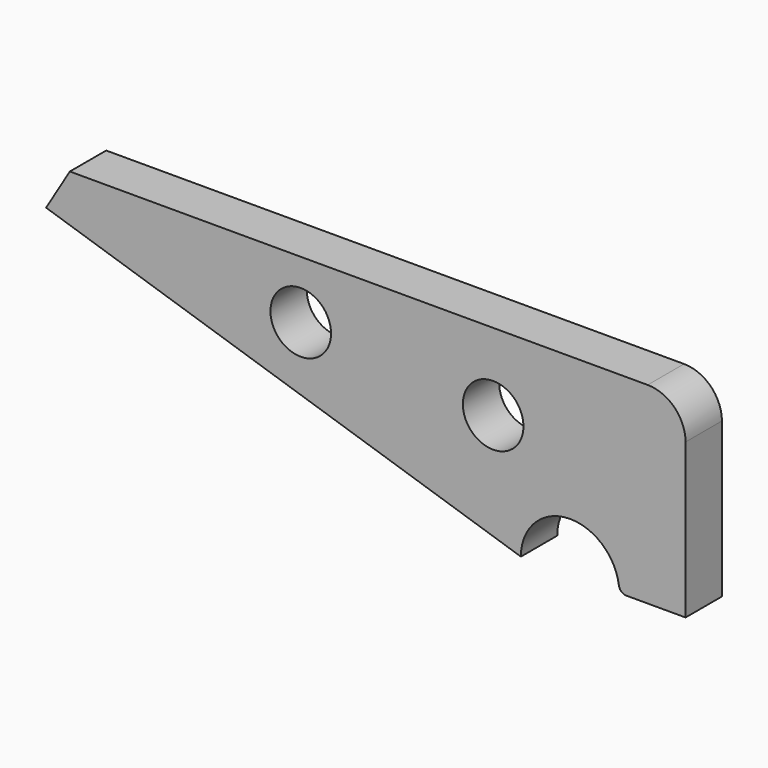
from build123d import *

# Parameters (mm, degrees)
F0_R     = 4
F1_DEPTH = 6
F2_R     = 5
F3_R     = 1


with BuildPart() as f1:
    # F0 (on Front) → F1 (new body)
    with BuildSketch(Plane.XZ):
        with BuildLine():
            Line((40.613971, 0), (-40.666029, 0))
            Line((-40.666029, 0), (-43.802427, -5.227331))
            Line((-43.802427, -5.227331), (18.873971, -25.4))
            ThreePointArc((18.873971, -25.4), (25.373971, -18.9), (31.873971, -25.4))
            Line((31.873971, -25.4), (35.371493, -25.4))
            Line((35.371493, -25.4), (40.613971, -25.4))
            Line((40.613971, -25.4), (40.613971, -10.16))
            Line((40.613971, -10.16), (40.613971, -7.62))
            Line((40.613971, -7.62), (40.613971, -6.35))
            Line((40.613971, -6.35), (40.613971, 0))
        make_face()
        with Locations((-10.186029, -7.62)):
            Circle(F0_R, mode=Mode.SUBTRACT)
        with Locations((15.213971, -10.16)):
            Circle(F0_R, mode=Mode.SUBTRACT)
    extrude(amount=F1_DEPTH)

    # F2
    f2_edges = [f1.edges().sort_by_distance(p)[0] for p in [
        (40.613971, -3, 0),
    ]]
    fillet(f2_edges, radius=F2_R)

    # F3
    f3_edges = [f1.edges().sort_by_distance(p)[0] for p in [
        (31.873971, -3, -25.4),
    ]]
    fillet(f3_edges, radius=F3_R)


solid = f1.part
